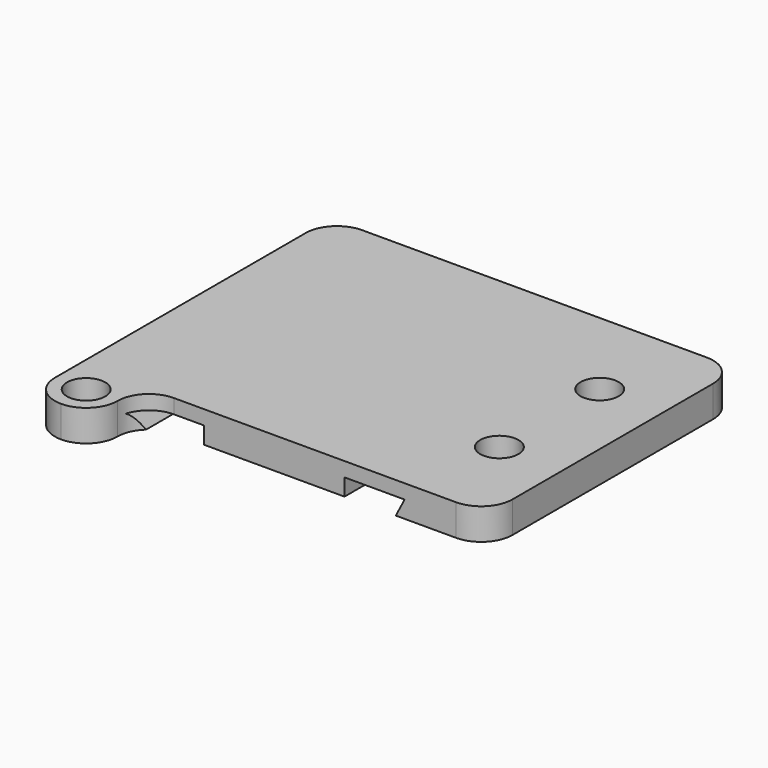
from build123d import *

# Parameters (mm, degrees)
F0_R     = 1.625
F1_DEPTH = 5
F2_R     = 3.05
F3_DEPTH = 3.5
F4_W     = 4.79
F4_H     = 2.71
F5_DEPTH = 43.45


with BuildPart() as f1:
    # F0 (on Top) → F1 (new body)
    with BuildSketch(Plane.XY):
        with BuildLine():
            Line((22.5, 25), (-32.5, 25))
            ThreePointArc((-32.5, 25), (-36.035534, 23.535534), (-37.5, 20))
            Line((-37.5, 20), (-37.5, -30))
            ThreePointArc((-37.5, -30), (-36.035534, -33.535534), (-32.5, -35))
            ThreePointArc((-32.5, -35), (-28.964466, -33.535534), (-27.5, -30))
            ThreePointArc((-27.5, -30), (-26.035534, -26.464466), (-22.5, -25))
            Line((-22.5, -25), (22.5, -25))
            ThreePointArc((22.5, -25), (26.035534, -23.535534), (27.5, -20))
            Line((27.5, -20), (27.5, 20))
            ThreePointArc((27.5, 20), (26.035534, 23.535534), (22.5, 25))
        make_face()
        with Locations((-32.5, -30)):
            Circle(F0_R, mode=Mode.SUBTRACT)
        with Locations((17.4, -10)):
            Circle(F0_R, mode=Mode.SUBTRACT)
        with Locations((17.4, 10)):
            Circle(F0_R, mode=Mode.SUBTRACT)
    extrude(amount=F1_DEPTH)

    # F2 (on face) → F3 (cut)
    with BuildSketch(Plane.XY.offset(5)):
        with Locations((17.4, 10)):
            Circle(F2_R)
        with Locations((17.4, -10)):
            Circle(F2_R)
        with Locations((-32.5, -30)):
            Circle(F2_R)
    extrude(amount=-F3_DEPTH, mode=Mode.SUBTRACT)

    # F4 (on face) → F5 (cut, symmetric)
    with BuildSketch(Plane.XZ.offset(25)):
        with Locations((-20.105, 1.355)):
            Rectangle(F4_W, F4_H)
        Polygon((4.7, 2.71), (4.7, 0), (12.88, 0), (14.29, 2.71), align=None)
        Polygon((-25.89, 0), (-22.5, 0), (-22.5, 2.71), (-27.3, 2.71), align=None)
    extrude(amount=F5_DEPTH, both=True, mode=Mode.SUBTRACT)


solid = f1.part
